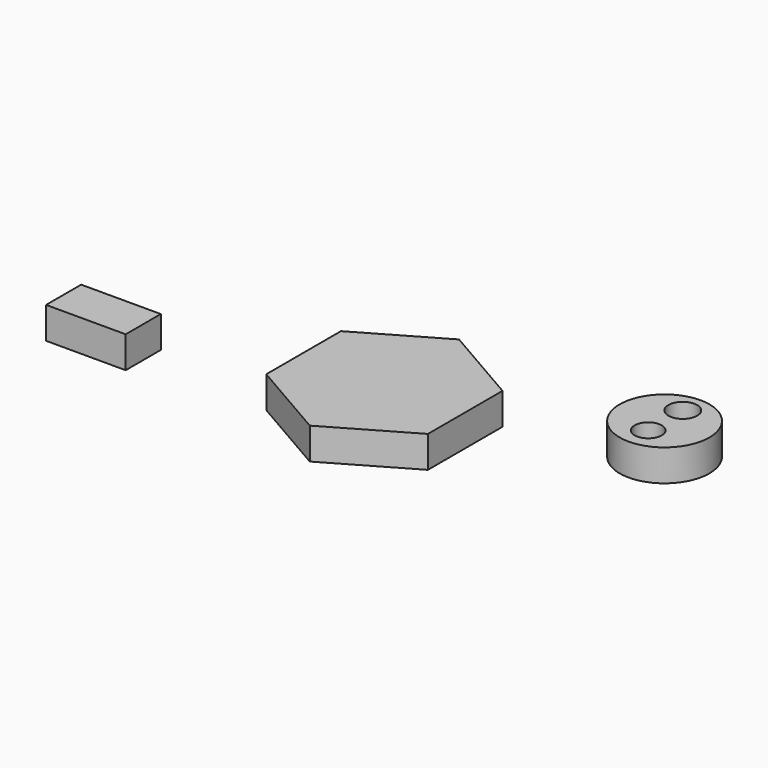
from build123d import *

# Parameters (mm, degrees)
F1_DEPTH = 25
F2_R     = 35.458634
F2_R_2   = 10.727885
F2_R_3   = 11.413684
F3_DEPTH = 25
F4_W     = 62.889963
F4_H     = 34.664976
F5_DEPTH = 25


with BuildPart() as f1:
    # F0 (on Top) → F1 (new body)
    with BuildSketch(Plane.XY):
        Polygon((63.843265, -36.859926), (63.843265, 36.859926), (0, 73.719853), (-63.843265, 36.859926), (-63.843265, -36.859926), (0, -73.719853), align=None)
    extrude(amount=F1_DEPTH)


with BuildPart() as f3:
    # F2 (on Top) → F3 (new body)
    with BuildSketch(Plane.XY):
        with Locations((166.976973, 67.922495)):
            Circle(F2_R)
        with Locations((166.976973, 51.778398)):
            Circle(F2_R_2, mode=Mode.SUBTRACT)
        with Locations((166.976973, 85.929848)):
            Circle(F2_R_3, mode=Mode.SUBTRACT)
    extrude(amount=F3_DEPTH)


with BuildPart() as f5:
    # F4 (on Top) → F5 (new body)
    with BuildSketch(Plane.XY):
        with Locations((-196.346327, -32.059524)):
            Rectangle(F4_W, F4_H)
    extrude(amount=F5_DEPTH)


solid = Compound([f1.part, f3.part, f5.part])
